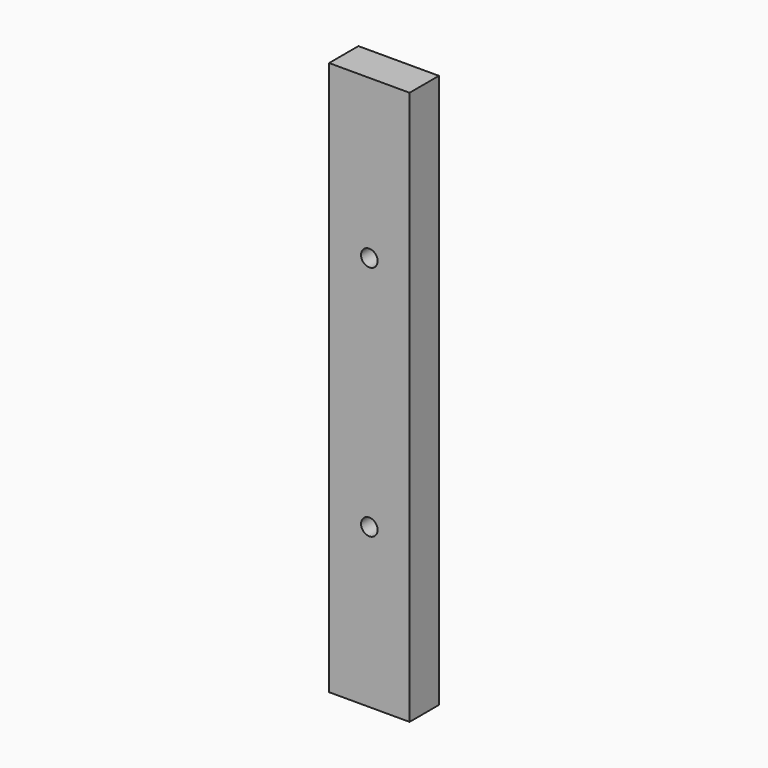
from build123d import *

# Parameters (mm, degrees)
F0_W     = 34
F0_H     = 15.5
F1_DEPTH = 234
F2_R     = 3.5
F3_DEPTH = 25


with BuildPart() as f1:
    # F0 (on Top) → F1 (new body)
    with BuildSketch(Plane.XY):
        with Locations((17, 7.75)):
            Rectangle(F0_W, F0_H)
    extrude(amount=F1_DEPTH)

    # F2 (on face) → F3 (cut)
    with BuildSketch(Plane(origin=(0, 15.5, 0), x_dir=(-1, 0, 0), z_dir=(0, 1, 0))):
        with Locations((-17, 167)):
            Circle(F2_R)
        with Locations((-17, 67)):
            Circle(F2_R)
    extrude(amount=-F3_DEPTH, mode=Mode.SUBTRACT)


solid = f1.part
